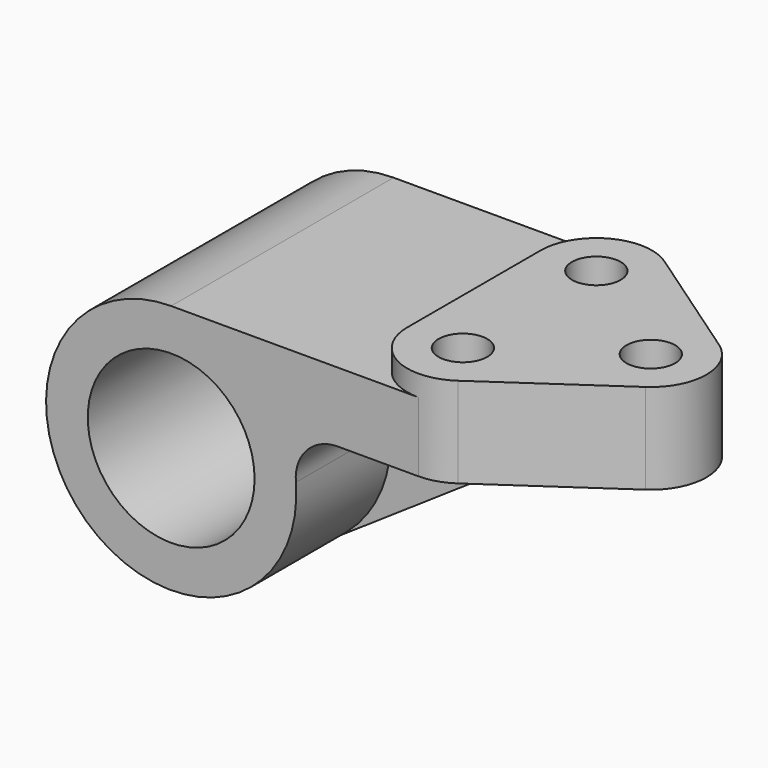
from build123d import *

# Parameters (mm, degrees)
F0_R     = 19.05
F1_DEPTH = 63.5
F3_DEPTH = 4.7752
F4_R     = 5.5626
F5_DEPTH = 61.9262
F7_START = 26.9875
F7_DEPTH = 9.525


with BuildPart() as f1:
    # F0 (on Front) → F1 (new body)
    with BuildSketch(Plane.XZ):
        with BuildLine():
            Line((96.8502, 28.575), (0, 28.575))
            ThreePointArc((0, 28.575), (-19.345366451, -21.0306305629), (28.4756083945, 2.38125))
            ThreePointArc((28.4756083945, 2.38125), (30.9572676717, 9.6234554837), (37.9674778593, 12.7))
            Line((37.9674778593, 12.7), (96.8502, 12.7))
            Line((96.8502, 12.7), (96.8502, 28.575))
        make_face()
        Circle(F0_R, mode=Mode.SUBTRACT)
    extrude(amount=F1_DEPTH)

    # F2 (on face) → F3 (join)
    with BuildSketch(Plane.XY.offset(28.575)):
        with BuildLine():
            Line((91.3501615674, -21.2881381472), (63.6696709939, -2.2381381472))
            ThreePointArc((63.6696709939, -2.2381381472), (50.5599510518, -1.4587920599), (43.7697094265, -12.7))
            Line((43.7697094265, -12.7), (43.7697094265, -50.8))
            ThreePointArc((43.7697094265, -50.8), (50.5599510518, -62.0412079401), (63.6696709939, -61.2618618528))
            Line((63.6696709939, -61.2618618528), (91.3501615674, -42.2118618528))
            ThreePointArc((91.3501615674, -42.2118618528), (96.8502, -31.75), (91.3501615674, -21.2881381472))
        make_face()
    extrude(amount=F3_DEPTH)

    # F4 (on face) → F5 (cut, through all)
    with BuildSketch(Plane.XY.offset(33.3502)):
        with BuildLine():
            ThreePointArc((56.4697094265, 0), (60.2396135678, -0.5724354149), (63.6696709939, -2.2381381472))
            Line((63.6696709939, -2.2381381472), (91.3501615674, -21.2881381472))
            ThreePointArc((91.3501615674, -21.2881381472), (96.8502, -31.75), (91.3501615674, -42.2118618528))
            Line((91.3501615674, -42.2118618528), (63.6696709939, -61.2618618528))
            ThreePointArc((63.6696709939, -61.2618618528), (60.2396135678, -62.9275645851), (56.4697094265, -63.5))
            Line((56.4697094265, -63.5), (57.4747696519, -69.5651322603))
            Line((57.4747696519, -69.5651322603), (104.9082130194, -69.5651322603))
            Line((104.9082130194, -69.5651322603), (103.1514182687, 2.3379409686))
            Line((103.1514182687, 2.3379409686), (60.4864172637, 3.7182786036))
            Line((60.4864172637, 3.7182786036), (56.4697094265, 0))
        make_face()
        with Locations((56.4697094265, -12.7)):
            Circle(F4_R)
        with Locations((56.4697094265, -50.8)):
            Circle(F4_R)
        with Locations((84.1502, -31.75)):
            Circle(F4_R)
    extrude(amount=-F5_DEPTH, mode=Mode.SUBTRACT)

    # F6 (on Front) → F7 (join)
    with BuildSketch(Plane.XZ.offset(F7_START)):
        with BuildLine():
            ThreePointArc((28.4756083945, 2.38125), (25.7719232537, -12.3425522809), (15.9950252975, -23.6788891364))
            Line((15.9950252975, -23.6788891364), (69.85, 12.7))
            Line((69.85, 12.7), (63.6696709939, 12.7))
            Line((63.6696709939, 12.7), (56.4697094265, 12.7))
            Line((56.4697094265, 12.7), (37.9674778593, 12.7))
            ThreePointArc((37.9674778593, 12.7), (30.9572676717, 9.6234554837), (28.4756083945, 2.38125))
        make_face()
    extrude(amount=F7_DEPTH)


solid = f1.part
